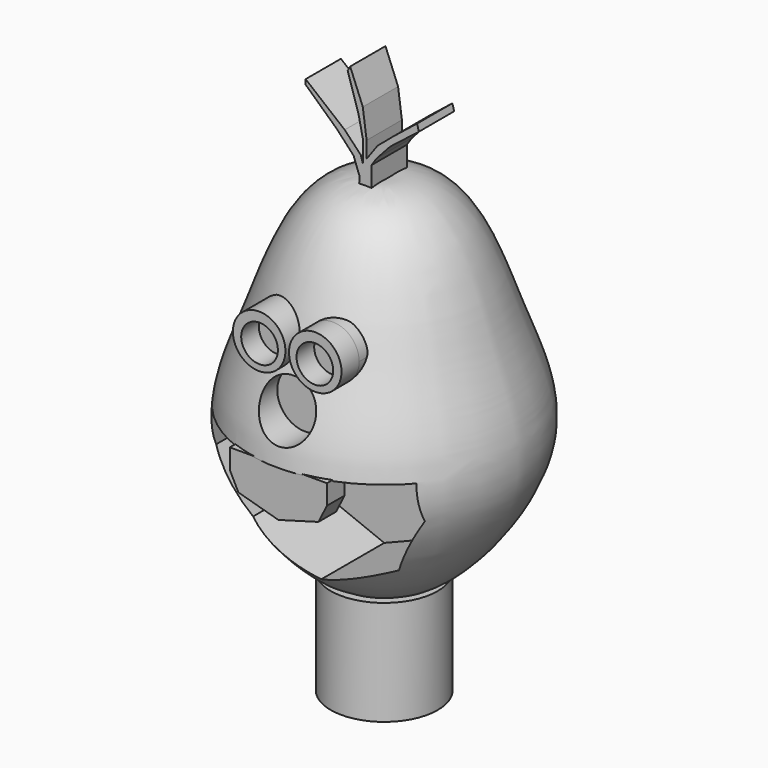
from build123d import *

# Parameters (mm, degrees)
F1_R      = 4.85
F2_DEPTH  = 9.5
F6_R      = 2.5
F7_DEPTH  = 5
F8_R      = 2.3817700771
F9_DEPTH  = 2
F10_DEPTH = 1
F11_R     = 1.6629928967
F12_DEPTH = 10
F14_DEPTH = 13
F17_DEPTH = 2
F19_DEPTH = 2
F20_DEPTH = 2


with BuildPart() as f2:
    # F1 (on offset) → F2 (new body)
    with BuildSketch(Plane.XY.offset(-10)):
        Circle(F1_R)
    extrude(amount=-F2_DEPTH)

    # F3 (on Front) → F4 (revolve)
    with BuildSketch(Plane.XZ):
        with BuildLine():
            add(Edge.make_bspline(
                [(0, -9.970930405), (-1.3505217005, -10.321882545), (-4.7101037613, -11.3997414842), (-14.4883586925, 0.5183248415), (-9.7463505302, 10.1236115349), (-6.2063955702, 22.3837215453), (0, 21.5697698295)],
                knots=[0, 0, 0, 0, 0.1602983763, 0.4390878008, 0.7014553095, 1, 1, 1, 1], degree=3))
            Line((0, -9.970930405), (0, 21.5697698295))
        make_face()
    revolve(axis=Axis((0, 0, 5.7994197123), (0, 0, -1)))

    # F6 (on offset) → F7 (cut)
    with BuildSketch(Plane.XZ.offset(9)):
        with Locations((0, 7.3255817406)):
            Circle(F6_R)
    extrude(amount=F7_DEPTH, mode=Mode.SUBTRACT)

    # F8 (on offset) → F9 (join)
    with BuildSketch(Plane.XZ.offset(9)):
        with Locations((-2.5436044671, 12.0058143511)):
            Circle(F8_R)
        with Locations((2.5436044671, 12.0058143511)):
            Circle(F8_R)
    extrude(amount=F9_DEPTH)

    # F8 (on offset) → F10 (join)
    with BuildSketch(Plane.XZ.offset(9)):
        with Locations((-2.5436044671, 12.0058143511)):
            Circle(F8_R)
        with Locations((2.5436044671, 12.0058143511)):
            Circle(F8_R)
    extrude(amount=-F10_DEPTH)

    # F11 (on offset) → F12 (cut)
    with BuildSketch(Plane.XZ.offset(9)):
        with Locations((-2.5083974469, 11.8470387533)):
            Circle(F11_R)
        with Locations((2.5083974469, 11.8470387533)):
            Circle(F11_R)
    extrude(amount=F12_DEPTH, mode=Mode.SUBTRACT)

    # F13 (on Front) → F14 (cut)
    with BuildSketch(Plane.XZ):
        Polygon((8.6482558399, 3.2558140811), (-8.6482558399, 3.2558140811), (-9.2587219551, 3.2558140811), (-9.4622112811, 0), (-6.6133709624, -5.0872093998), (0, -7.7325585298), (6.6133709624, -5.0872093998), (9.4622112811, 0), (9.2587219551, 3.2558140811), align=None)
    extrude(amount=F14_DEPTH, mode=Mode.SUBTRACT)

    # F16 (on offset) → F17 (join)
    with BuildSketch(Plane.XZ.offset(12)):
        Polygon((0, 3.343462944), (-4.4047655538, 3.343462944), (-4.4047655538, 1.5467801131), (-3.6280222703, 0), (0, -1.0199095123), align=None)
        Polygon((4.4047655538, 3.343462944), (0, 3.343462944), (0, -1.0199095123), (3.6280222703, 0), (4.4047655538, 1.5467801131), align=None)
    extrude(amount=-F17_DEPTH)

    # F18 (on Front) → F19 (join)
    with BuildSketch(Plane.XZ):
        Polygon((-2.7080250438, 25.259565562), (-1.1835845653, 23.6207917333), (-0.650030619, 22.1725739539), (-0.6881413865, 20.9149103612), (-0.3440706932, 20.9530210122), (-0.3440706932, 23.2877233856), (-0.5356975016, 23.8875690848), (-1.9839156885, 25.412010029), (-5.528239999, 28.3084474504), (-5.528239999, 27.8624672941), align=None)
        Polygon((-0.3440706932, 23.2877233856), (-0.3440706932, 20.9530210122), (0, 20.9911316633), (0, 22.2106855363), align=None)
        Polygon((0, 22.2106855363), (0, 20.9911316633), (0.4551889142, 20.8767987788), (0.4551889142, 23.3921259642), (0.9125209763, 24.0781251341), (2.1320732776, 25.412010029), (4.7409896982, 27.4502248463), (4.5785000548, 28.0425772071), (2.4750723969, 26.3647846878), (0.9887429187, 25.1071210951), (0, 23.7351246178), align=None)
        Polygon((-0.3440706932, 25.259565562), (-0.3440706932, 23.2877233856), (0, 22.2106855363), (0, 23.7351246178), (0, 25.2214539796), (-0.3451424418, 27.7748927474), (-1.4884728007, 30.6332167238), (-1.7171388026, 30.213996768), (-0.7262525614, 27.0507819951), align=None)
    extrude(amount=F19_DEPTH)

    # F18 (on Front) → F20 (join)
    with BuildSketch(Plane.XZ):
        Polygon((-2.7080250438, 25.259565562), (-1.1835845653, 23.6207917333), (-0.650030619, 22.1725739539), (-0.6881413865, 20.9149103612), (-0.3440706932, 20.9530210122), (-0.3440706932, 23.2877233856), (-0.5356975016, 23.8875690848), (-1.9839156885, 25.412010029), (-5.528239999, 28.3084474504), (-5.528239999, 27.8624672941), align=None)
        Polygon((-0.3440706932, 23.2877233856), (-0.3440706932, 20.9530210122), (0, 20.9911316633), (0, 22.2106855363), align=None)
        Polygon((0, 22.2106855363), (0, 20.9911316633), (0.4551889142, 20.8767987788), (0.4551889142, 23.3921259642), (0.9125209763, 24.0781251341), (2.1320732776, 25.412010029), (4.7409896982, 27.4502248463), (4.5785000548, 28.0425772071), (2.4750723969, 26.3647846878), (0.9887429187, 25.1071210951), (0, 23.7351246178), align=None)
        Polygon((-0.3440706932, 25.259565562), (-0.3440706932, 23.2877233856), (0, 22.2106855363), (0, 23.7351246178), (0, 25.2214539796), (-0.3451424418, 27.7748927474), (-1.4884728007, 30.6332167238), (-1.7171388026, 30.213996768), (-0.7262525614, 27.0507819951), align=None)
    extrude(amount=-F20_DEPTH)


solid = f2.part
